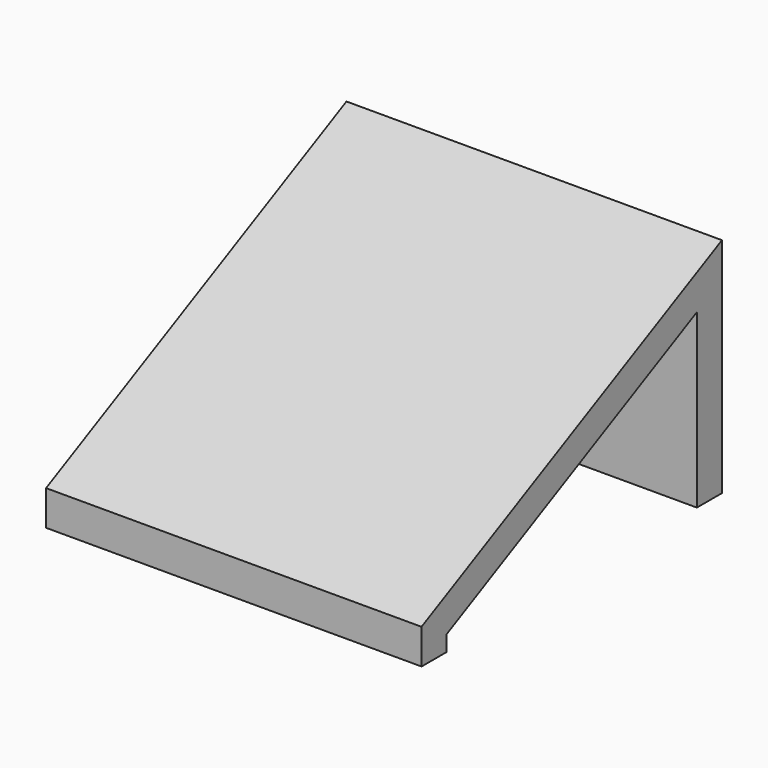
from build123d import *

# Parameters (mm, degrees)
F1_DEPTH = 60


with BuildPart() as f1:
    # F0 (on Right) → F1 (new body)
    with BuildSketch(Plane.YZ):
        Polygon((-5, 0), (0, 0), (0, 30), (-5, 27.5), align=None)
        Polygon((-5, 27.5), (0, 30), (0, 35.59017), (-60, 5.59017), (-60, 0), (-55, 2.5), align=None)
        Polygon((-55, 0), (-55, 2.5), (-60, 0), align=None)
    extrude(amount=F1_DEPTH)


solid = f1.part
